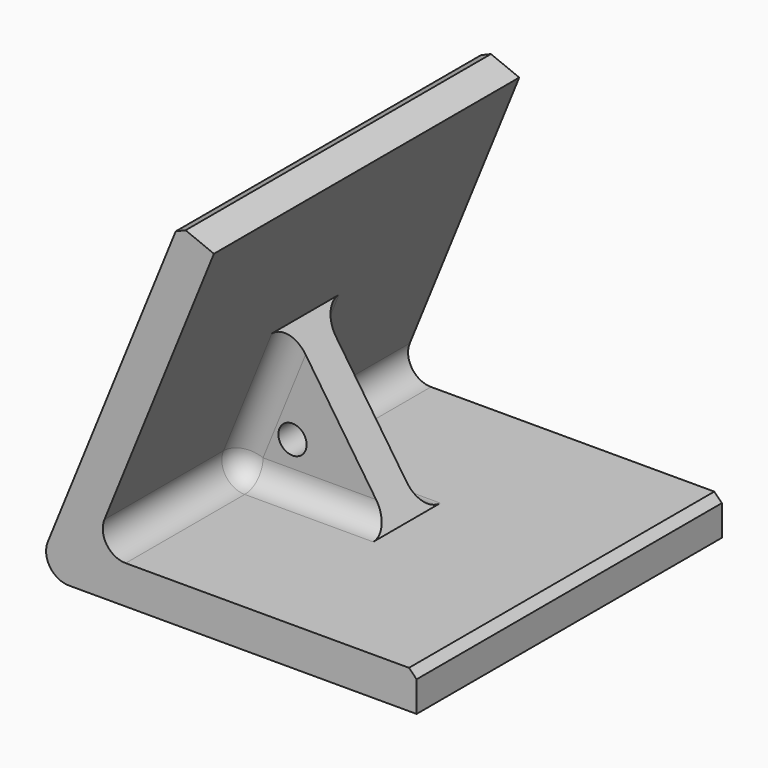
from build123d import *

# Parameters (mm, degrees)
F1_DEPTH = 50
F3_R     = 1.8504510886
F4_DEPTH = 2.5
F5_R     = 3
F6_SIZE  = 1


with BuildPart() as f1:
    # F0 (on Front) → F1 (new body)
    with BuildSketch(Plane.XZ):
        Polygon((18.8134295464, 46.3255314994), (0, 0), (50, 0), (50, 5), (7.427160285, 5), (23.4459826963, 44.4441885448), align=None)
    extrude(amount=F1_DEPTH)

    # F3 (on offset) → F4 (join, symmetric)
    with BuildSketch(Plane.XZ.offset(25)):
        Polygon((28.7135801425, 5), (15.4365714906, 24.7220942724), (7.427160285, 5), align=None)
        with Locations((15.7413743436, 11.3711580634)):
            Circle(F3_R, mode=Mode.SUBTRACT)
    extrude(amount=F4_DEPTH, both=True)

    # F5
    f5_edges = [f1.edges().sort_by_distance(p)[0] for p in [
        (0, -25, 0),
        (18.07037, -27.5, 5),
        (11.431866, -27.5, 14.861047),
        (11.431866, -22.5, 14.861047),
        (18.07037, -22.5, 5),
        (7.42716, -38.75, 5),
        (7.42716, -11.25, 5),
    ]]
    fillet(f5_edges, radius=F5_R)

    # F6
    f6_edges = [f1.edges().sort_by_distance(p)[0] for p in [
        (18.81343, -25, 46.325531),
        (50, -25, 5),
    ]]
    chamfer(f6_edges, length=F6_SIZE)


solid = f1.part
